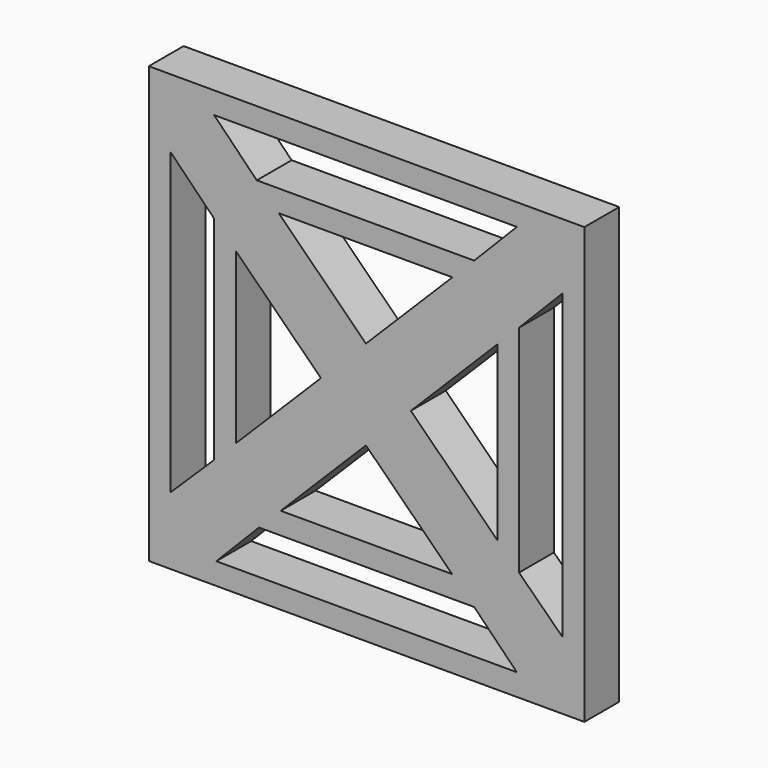
from build123d import *

# Parameters (mm, degrees)
F0_W     = 254
F0_H     = 254
F1_DEPTH = 25.4


with BuildPart() as f1:
    # F0 (on Front) → F1 (new body)
    with BuildSketch(Plane.XZ):
        with Locations((-62.743184, 122.954839)):
            Rectangle(F0_W, F0_H)
        Polygon((-177.043184, 35.324839), (-177.043184, 210.034884), (-151.643184, 184.111117), (-151.643184, 60.211654), align=None, mode=Mode.SUBTRACT)
        Polygon((-12.834308, 46.754839), (-112.805856, 46.754839), (-63.121381, 96.515671), align=None, mode=Mode.SUBTRACT)
        Polygon((-138.943184, 72.911654), (-138.943184, 171.54402), (-89.367604, 122.487235), align=None, mode=Mode.SUBTRACT)
        Polygon((24.886816, 8.654839), (-150.373184, 8.654839), (-125.486368, 34.054839), (0, 34.054839), align=None, mode=Mode.SUBTRACT)
        Polygon((-63.113897, 148.740941), (-113.950007, 199.154839), (-12.7, 199.154839), align=None, mode=Mode.SUBTRACT)
        Polygon((-126.756368, 211.854839), (-151.643184, 237.254839), (24.886816, 237.254839), (0, 211.854839), align=None, mode=Mode.SUBTRACT)
        Polygon((-36.91635, 122.760974), (13.456816, 173.211555), (13.456816, 72.806176), align=None, mode=Mode.SUBTRACT)
        Polygon((26.156816, 185.931072), (51.556816, 211.854839), (51.556816, 35.324839), (26.156816, 60.211654), align=None, mode=Mode.SUBTRACT)
    extrude(amount=F1_DEPTH)


solid = f1.part
